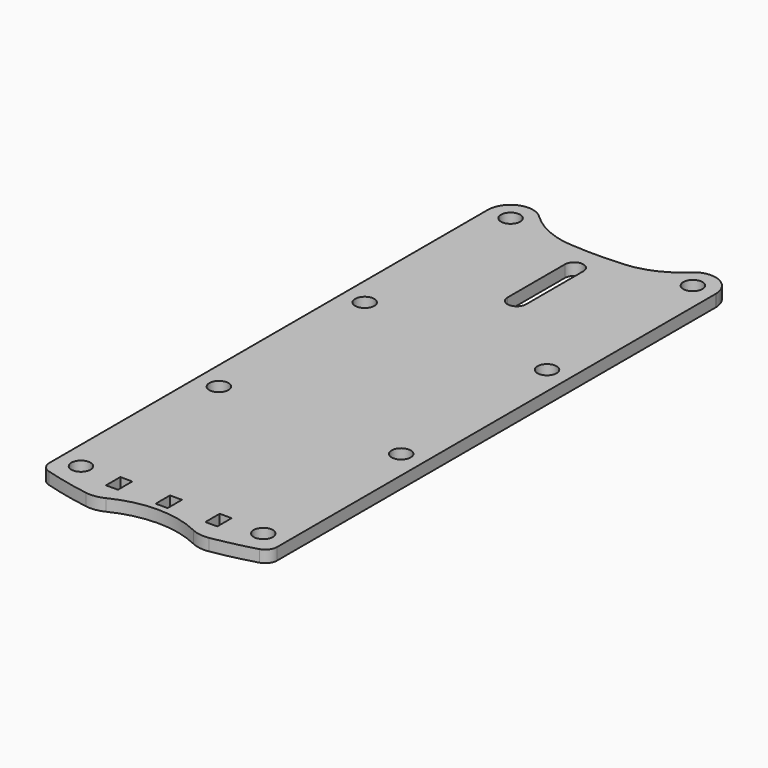
from build123d import *

# Parameters (mm, degrees)
F0_R     = 1.6
F0_W     = 2
F0_H     = 3
F1_DEPTH = 2
F2_R     = 5
F3_R     = 2
F4_R     = 13.153232


with BuildPart() as f1:
    # F0 (on Top) → F1 (new body)
    with BuildSketch(Plane.XY):
        with BuildLine():
            ThreePointArc((-45.849798, 66.493904), (-45.855762, 66.371516), (-45.857751, 66.248998))
            Line((-45.857751, 66.248998), (-45.857751, 60.434222))
            Line((-45.857751, 60.434222), (-45.857751, 35.748998))
            Line((-45.857751, 35.748998), (-45.857751, 33.160256))
            Line((-45.857751, 33.160256), (-45.857751, 5.248998))
            Line((-45.857751, 5.248998), (-45.857751, -19.436226))
            Line((-45.857751, -19.436226), (-45.857751, -25.251002))
            Line((-45.857751, -25.251002), (-45.857751, -26.920806))
            ThreePointArc((-45.857751, -26.920806), (-40.539361, -28.348832), (-35.116938, -29.308968))
            ThreePointArc((-35.116938, -29.308968), (-26.575174, -26.898307), (-18.01507, -29.243015))
            ThreePointArc((-18.01507, -29.243015), (-12.838073, -28.295417), (-7.757751, -26.920806))
            Line((-7.757751, -26.920806), (-7.757751, -25.251002))
            Line((-7.757751, -25.251002), (-7.757751, -19.436226))
            Line((-7.757751, -19.436226), (-7.757751, 5.248998))
            Line((-7.757751, 5.248998), (-7.757751, 35.748998))
            Line((-7.757751, 35.748998), (-7.757751, 60.434222))
            Line((-7.757751, 60.434222), (-7.757751, 66.248998))
            ThreePointArc((-7.757751, 66.248998), (-7.759739, 66.371516), (-7.765703, 66.493904))
            ThreePointArc((-7.765703, 66.493904), (-11.655268, 70.022009), (-15.307751, 66.248998))
            ThreePointArc((-15.307751, 66.248998), (-26.807751, 65.147515), (-38.307751, 66.248998))
            ThreePointArc((-38.307751, 66.248998), (-41.960233, 70.022009), (-45.849798, 66.493904))
        make_face()
        with Locations((-42.057751, -23.592251)):
            Circle(F0_R, mode=Mode.SUBTRACT)
        with Locations((-35.116938, -24.283788)):
            Rectangle(F0_W, F0_H, mode=Mode.SUBTRACT)
        with Locations((-26.807751, -24.283788)):
            Rectangle(F0_W, F0_H, mode=Mode.SUBTRACT)
        with Locations((-42.057751, 5.248998)):
            Circle(F0_R, mode=Mode.SUBTRACT)
        with Locations((-18.498563, -24.283788)):
            Rectangle(F0_W, F0_H, mode=Mode.SUBTRACT)
        with Locations((-11.557751, -23.592251)):
            Circle(F0_R, mode=Mode.SUBTRACT)
        with BuildLine():
            ThreePointArc((-13.157751, 5.248998), (-11.557751, 6.848998), (-9.957751, 5.248998))
            ThreePointArc((-9.957751, 5.248998), (-11.557751, 3.648998), (-13.157751, 5.248998))
        make_face(mode=Mode.SUBTRACT)
        with Locations((-42.057751, 35.748998)):
            Circle(F0_R, mode=Mode.SUBTRACT)
        with Locations((-42.057751, 66.248998)):
            Circle(F0_R, mode=Mode.SUBTRACT)
        with BuildLine():
            ThreePointArc((-13.157751, 35.748998), (-11.557751, 37.348998), (-9.957751, 35.748998))
            ThreePointArc((-9.957751, 35.748998), (-11.557751, 34.148998), (-13.157751, 35.748998))
        make_face(mode=Mode.SUBTRACT)
        with BuildLine():
            ThreePointArc((-28.357751, 60.4842), (-26.807751, 62.0342), (-25.257751, 60.4842))
            Line((-25.257751, 60.4842), (-25.257751, 48.4842))
            ThreePointArc((-25.257751, 48.4842), (-26.807751, 46.9342), (-28.357751, 48.4842))
            Line((-28.357751, 48.4842), (-28.357751, 60.4842))
        make_face(mode=Mode.SUBTRACT)
        with Locations((-11.557751, 66.248998)):
            Circle(F0_R, mode=Mode.SUBTRACT)
        with Locations((-42.057751, 35.748998)):
            Circle(F0_R)
        with BuildLine():
            ThreePointArc((-13.157751, 35.748998), (-11.557751, 34.148998), (-9.957751, 35.748998))
            ThreePointArc((-9.957751, 35.748998), (-11.557751, 37.348998), (-13.157751, 35.748998))
        make_face()
        with Locations((-42.057751, 5.248998)):
            Circle(F0_R)
        with BuildLine():
            ThreePointArc((-13.157751, 5.248998), (-11.557751, 3.648998), (-9.957751, 5.248998))
            ThreePointArc((-9.957751, 5.248998), (-11.557751, 6.848998), (-13.157751, 5.248998))
        make_face()
        with BuildLine():
            ThreePointArc((-45.849798, 66.493904), (-45.855762, 66.371516), (-45.857751, 66.248998))
            Line((-45.857751, 66.248998), (-45.857751, 60.434222))
            Line((-45.857751, 60.434222), (-45.857751, 35.748998))
            Line((-45.857751, 35.748998), (-45.857751, 33.160256))
            Line((-45.857751, 33.160256), (-45.857751, 5.248998))
            Line((-45.857751, 5.248998), (-45.857751, -19.436226))
            Line((-45.857751, -19.436226), (-45.857751, -25.251002))
            Line((-45.857751, -25.251002), (-45.857751, -26.920806))
            ThreePointArc((-45.857751, -26.920806), (-40.539361, -28.348832), (-35.116938, -29.308968))
            ThreePointArc((-35.116938, -29.308968), (-26.575174, -26.898307), (-18.01507, -29.243015))
            ThreePointArc((-18.01507, -29.243015), (-12.838073, -28.295417), (-7.757751, -26.920806))
            Line((-7.757751, -26.920806), (-7.757751, -25.251002))
            Line((-7.757751, -25.251002), (-7.757751, -19.436226))
            Line((-7.757751, -19.436226), (-7.757751, 5.248998))
            Line((-7.757751, 5.248998), (-7.757751, 35.748998))
            Line((-7.757751, 35.748998), (-7.757751, 60.434222))
            Line((-7.757751, 60.434222), (-7.757751, 66.248998))
            ThreePointArc((-7.757751, 66.248998), (-7.759739, 66.371516), (-7.765703, 66.493904))
            ThreePointArc((-7.765703, 66.493904), (-11.655268, 70.022009), (-15.307751, 66.248998))
            ThreePointArc((-15.307751, 66.248998), (-26.807751, 65.147515), (-38.307751, 66.248998))
            ThreePointArc((-38.307751, 66.248998), (-41.960233, 70.022009), (-45.849798, 66.493904))
        make_face()
        with Locations((-42.057751, -23.592251)):
            Circle(F0_R, mode=Mode.SUBTRACT)
        with Locations((-35.116938, -24.283788)):
            Rectangle(F0_W, F0_H, mode=Mode.SUBTRACT)
        with Locations((-26.807751, -24.283788)):
            Rectangle(F0_W, F0_H, mode=Mode.SUBTRACT)
        with Locations((-42.057751, 5.248998)):
            Circle(F0_R, mode=Mode.SUBTRACT)
        with Locations((-18.498563, -24.283788)):
            Rectangle(F0_W, F0_H, mode=Mode.SUBTRACT)
        with Locations((-11.557751, -23.592251)):
            Circle(F0_R, mode=Mode.SUBTRACT)
        with BuildLine():
            ThreePointArc((-13.157751, 5.248998), (-11.557751, 6.848998), (-9.957751, 5.248998))
            ThreePointArc((-9.957751, 5.248998), (-11.557751, 3.648998), (-13.157751, 5.248998))
        make_face(mode=Mode.SUBTRACT)
        with Locations((-42.057751, 35.748998)):
            Circle(F0_R, mode=Mode.SUBTRACT)
        with Locations((-42.057751, 66.248998)):
            Circle(F0_R, mode=Mode.SUBTRACT)
        with BuildLine():
            ThreePointArc((-13.157751, 35.748998), (-11.557751, 37.348998), (-9.957751, 35.748998))
            ThreePointArc((-9.957751, 35.748998), (-11.557751, 34.148998), (-13.157751, 35.748998))
        make_face(mode=Mode.SUBTRACT)
        with BuildLine():
            ThreePointArc((-28.357751, 60.4842), (-26.807751, 62.0342), (-25.257751, 60.4842))
            Line((-25.257751, 60.4842), (-25.257751, 48.4842))
            ThreePointArc((-25.257751, 48.4842), (-26.807751, 46.9342), (-28.357751, 48.4842))
            Line((-28.357751, 48.4842), (-28.357751, 60.4842))
        make_face(mode=Mode.SUBTRACT)
        with Locations((-11.557751, 66.248998)):
            Circle(F0_R, mode=Mode.SUBTRACT)
    extrude(amount=F1_DEPTH)

    # F2
    f2_edges = [f1.edges().sort_by_distance(p)[0] for p in [
        (-35.116938, -29.308968, 1),
        (-18.01507, -29.243015, 1),
    ]]
    fillet(f2_edges, radius=F2_R)

    # F3
    f3_edges = [f1.edges().sort_by_distance(p)[0] for p in [
        (-7.757751, -26.920806, 1),
        (-45.857751, -26.920806, 1),
    ]]
    fillet(f3_edges, radius=F3_R)

    # F4
    f4_edges = [f1.edges().sort_by_distance(p)[0] for p in [
        (-38.307751, 66.248998, 1),
        (-15.307751, 66.248998, 1),
    ]]
    fillet(f4_edges, radius=F4_R)


solid = f1.part
